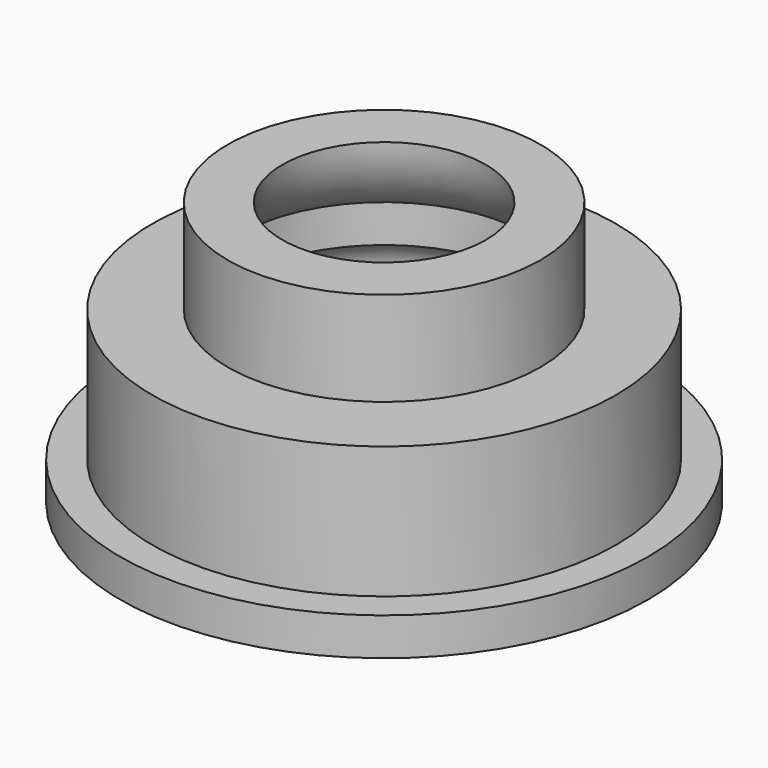
from build123d import *

# Parameters (mm, degrees)
F0_R     = 15.621
F1_DEPTH = 11.43
F2_R     = 10.541
F3_DEPTH = 6.35
F4_R     = 17.78
F5_DEPTH = 2.54
F6_R     = 6.6675
F7_DEPTH = 17.781


with BuildPart() as f1:
    # F0 (on Top) → F1 (new body)
    with BuildSketch(Plane.XY):
        Circle(F0_R)
    extrude(amount=F1_DEPTH)

    # F2 (on face) → F3 (join)
    with BuildSketch(Plane.XY.offset(11.43)):
        Circle(F2_R)
    extrude(amount=F3_DEPTH)

    # F4 (on face) → F5 (join)
    with BuildSketch(Plane(origin=(0, 0, 0), x_dir=(1, 0, 0), z_dir=(0, 0, -1))):
        Circle(F4_R)
    extrude(amount=-F5_DEPTH)

    # F6 (on face) → F7 (cut, through all)
    with BuildSketch(Plane.XY.offset(17.78)):
        Circle(F6_R)
    extrude(amount=-F7_DEPTH, mode=Mode.SUBTRACT)

    # F8 (on Front) → F9 (revolve, cut)
    with BuildSketch(Plane.XZ):
        with BuildLine():
            ThreePointArc((9.779, 12.7), (7.64031, 14.850041), (6.858, 17.78))
            Line((6.858, 17.78), (1.041292, 17.78))
            Line((1.041292, 17.78), (1.041292, -3.794143))
            Line((1.041292, -3.794143), (10.795, -3.794143))
            Line((10.795, -3.794143), (10.795, 8.128))
            ThreePointArc((10.795, 8.128), (10.526845, 9.263923), (9.779, 10.16))
            Line((9.779, 10.16), (9.779, 12.7))
        make_face()
    revolve(axis=Axis((0, 0, 0.73688), (0, 0, -1)), mode=Mode.SUBTRACT)


solid = f1.part
